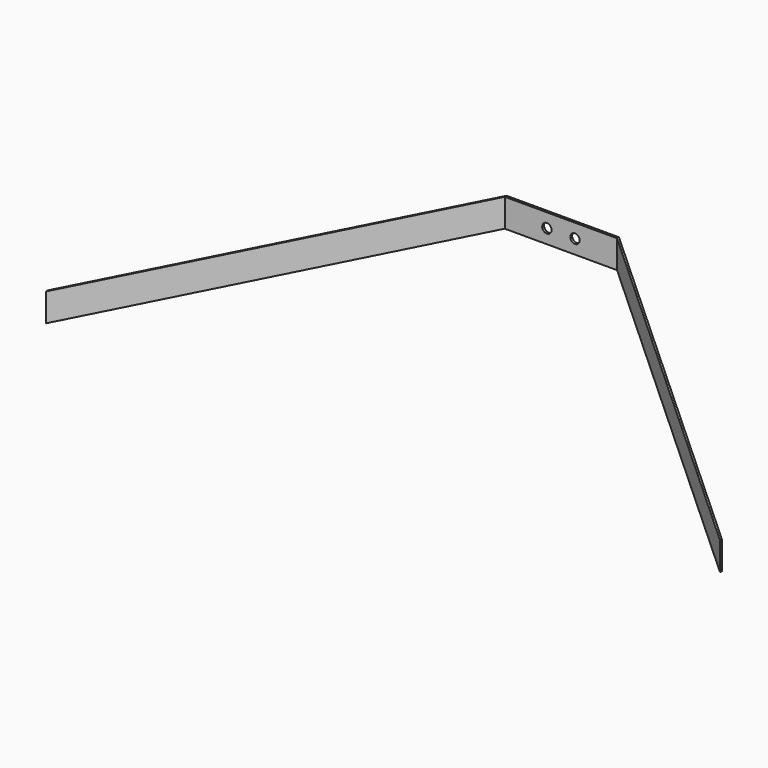
from build123d import *

# Parameters (mm, degrees)
F0_W      = 914.4
F0_H      = 152.4
F1_DEPTH  = 304.8
F3_DEPTH  = 152.401
F5_DEPTH  = 152.401
F7_DEPTH  = 152.401
F9_DEPTH  = 304.801
F11_DEPTH = 304.801
F13_DEPTH = 304.801
F15_D     = 12.7


with BuildPart() as f1:
    # F0 (on Front) → F1 (new body)
    with BuildSketch(Plane.XZ):
        with Locations((-457.2, -76.2)):
            Rectangle(F0_W, F0_H)
    extrude(amount=F1_DEPTH)

    # F2 (on face) → F3 (cut, through all)
    with BuildSketch(Plane.XY):
        Polygon((-381, -3.175), (-533.4, -3.175), (-914.4, -304.8), (0, -304.8), align=None)
    extrude(amount=-F3_DEPTH, mode=Mode.SUBTRACT)

    # F4 (on face) → F5 (cut, through all)
    with BuildSketch(Plane.XY):
        Polygon((-914.4, 0), (-914.4, -301.625), (-533.4, 0), align=None)
    extrude(amount=-F5_DEPTH, mode=Mode.SUBTRACT)

    # F6 (on face) → F7 (cut, through all)
    with BuildSketch(Plane.XY):
        Polygon((0, 0), (-381, 0), (0, -301.625), align=None)
    extrude(amount=-F7_DEPTH, mode=Mode.SUBTRACT)

    # F8 (on face) → F9 (cut, through all)
    with BuildSketch(Plane(origin=(0, 0, 0), x_dir=(-1, 0, 0), z_dir=(0, 1, 0))):
        Polygon((381, -38.1), (0, -152.4), (914.4, -152.4), (533.4, -38.1), align=None)
    extrude(amount=-F9_DEPTH, mode=Mode.SUBTRACT)

    # F10 (on face) → F11 (cut, through all)
    with BuildSketch(Plane(origin=(0, 0, 0), x_dir=(-1, 0, 0), z_dir=(0, 1, 0))):
        Polygon((0, -114.3), (381, 0), (0, 0), align=None)
    extrude(amount=-F11_DEPTH, mode=Mode.SUBTRACT)

    # F12 (on face) → F13 (cut, through all)
    with BuildSketch(Plane(origin=(0, 0, 0), x_dir=(-1, 0, 0), z_dir=(0, 1, 0))):
        Polygon((914.4, 0), (533.4, 0), (914.4, -114.3), align=None)
    extrude(amount=-F13_DEPTH, mode=Mode.SUBTRACT)

    # F15 (through all)
    with Locations(Plane.XZ.offset(3.175)):
        with Locations((-476.25, -19.05), (-438.15, -19.05)):
            Hole(F15_D / 2)


solid = f1.part
